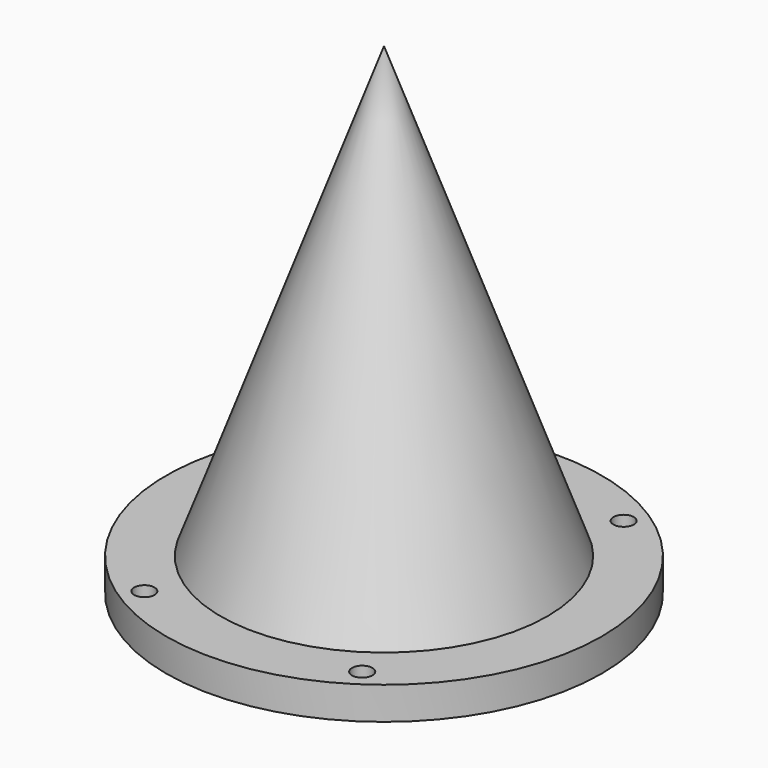
from build123d import *

# Parameters (mm, degrees)
F0_R     = 50.8
F1_DEPTH = 7.62
F2_R     = 38.1
F3_DEPTH = 124.206
F3_TAPER = 20
F4_R     = 2.3749
F4_R_2   = 2.38125
F5_DEPTH = 25.4


with BuildPart() as f1:
    # F0 (on Top) → F1 (new body)
    with BuildSketch(Plane.XY):
        Circle(F0_R)
    extrude(amount=F1_DEPTH)

    # F2 (on face) → F3 (join)
    with BuildSketch(Plane.XY.offset(7.62)):
        Circle(F2_R)
    extrude(amount=F3_DEPTH, taper=F3_TAPER)

    # F4 (on Top) → F5 (cut)
    with BuildSketch(Plane.XY):
        with Locations((-25.4, -38.1)):
            Circle(F4_R)
        with Locations((25.4, -38.1)):
            Circle(F4_R_2)
        with Locations((-25.4, 38.1)):
            Circle(F4_R)
        with Locations((25.4, 38.1)):
            Circle(F4_R_2)
    extrude(amount=F5_DEPTH, mode=Mode.SUBTRACT)


solid = f1.part
